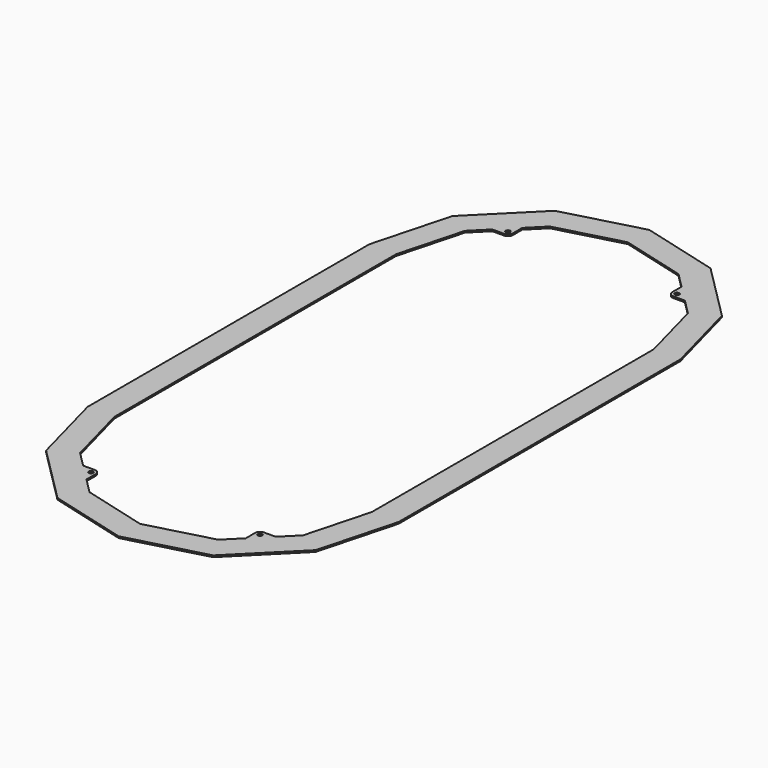
from build123d import *

# Parameters (mm, degrees)
F1_DEPTH = 1.5875
F3_DEPTH = 1.5875
F4_R     = 2.15265
F5_DEPTH = 1.5875


with BuildPart() as f1:
    # F0 (on Top) → F1 (new body)
    with BuildSketch(Plane.XY):
        Polygon((304.8, -344.8862546), (304.8, 0), (284.3822715367, 76.2), (228.6, 131.9822715367), (152.4, 152.4), (76.2, 131.9822715367), (20.4177284633, 76.2), (0, 0), (0, -344.8862546), (20.4177284633, -421.0862546), (76.2, -476.8685261367), (152.4, -497.2862546), (228.6, -476.8685261367), (284.3822715367, -421.0862546), align=None)
    extrude(amount=F1_DEPTH)

    # F2 (on face) → F3 (cut, through all)
    with BuildSketch(Plane.XY.offset(1.5875)):
        Polygon((278.5039850176, -344.8862546), (278.5039850176, 0), (261.6092545437, 63.0519925088), (215.4519925088, 109.2092545437), (152.4, 126.1039850176), (89.3480074912, 109.2092545437), (43.1907454563, 63.0519925088), (26.2960149824, 0), (26.2960149824, -344.8862546), (43.1907454563, -407.9382471088), (89.3480074912, -454.0955091437), (152.4, -470.9902396176), (215.4519925088, -454.0955091437), (261.6092545437, -407.9382471088), align=None)
    extrude(amount=-F3_DEPTH, mode=Mode.SUBTRACT)

    # F4 (on face) → F5 (join, through all)
    with BuildSketch(Plane.XY.offset(1.5875)):
        with BuildLine():
            Line((246.6607195716, 78.0005274808), (230.4005274808, 94.2607195716))
            Line((230.4005274808, 94.2607195716), (230.4005274808, 82.7630274808))
            ThreePointArc((230.4005274808, 82.7630274808), (231.7954314354, 79.3954314354), (235.1630274808, 78.0005274808))
            Line((235.1630274808, 78.0005274808), (246.6607195716, 78.0005274808))
        make_face()
        with Locations((235.1630274808, 82.7630274808)):
            Circle(F4_R, mode=Mode.SUBTRACT)
        with BuildLine():
            ThreePointArc((69.6369725192, 78.0005274808), (73.0045685646, 79.3954314354), (74.3994725192, 82.7630274808))
            Line((74.3994725192, 82.7630274808), (74.3994725192, 94.2607195716))
            Line((74.3994725192, 94.2607195716), (58.1392804284, 78.0005274808))
            Line((58.1392804284, 78.0005274808), (69.6369725192, 78.0005274808))
        make_face()
        with Locations((69.6369725192, 82.7630274808)):
            Circle(F4_R, mode=Mode.SUBTRACT)
        with BuildLine():
            Line((69.6369725192, -422.8867820808), (58.1392804284, -422.8867820808))
            Line((58.1392804284, -422.8867820808), (74.3994725192, -439.1469741716))
            Line((74.3994725192, -439.1469741716), (74.3994725192, -427.6492820808))
            ThreePointArc((74.3994725192, -427.6492820808), (73.0045685646, -424.2816860354), (69.6369725192, -422.8867820808))
        make_face()
        with Locations((69.6369725192, -427.6492820808)):
            Circle(F4_R, mode=Mode.SUBTRACT)
        with BuildLine():
            Line((230.4005274808, -439.1469741716), (246.6607195716, -422.8867820808))
            Line((246.6607195716, -422.8867820808), (235.1630274808, -422.8867820808))
            ThreePointArc((235.1630274808, -422.8867820808), (231.7954314354, -424.2816860354), (230.4005274808, -427.6492820808))
            Line((230.4005274808, -427.6492820808), (230.4005274808, -439.1469741716))
        make_face()
        with Locations((235.1630274808, -427.6492820808)):
            Circle(F4_R, mode=Mode.SUBTRACT)
    extrude(amount=-F5_DEPTH)


solid = f1.part
